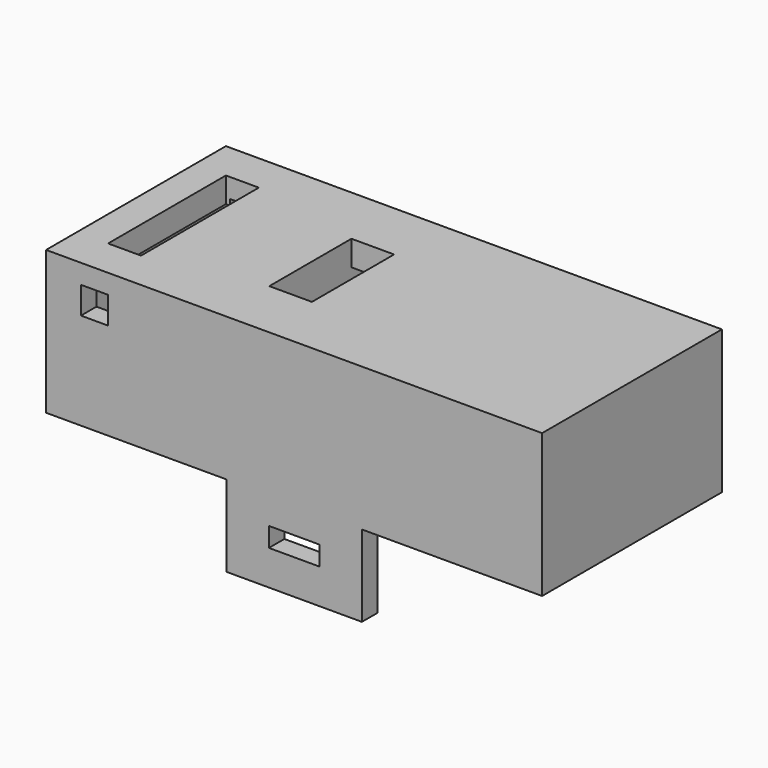
from build123d import *

# Parameters (mm, degrees)
SKETCH028_W     = 1.3
SKETCH028_H     = 0.5
PAD004_DEPTH    = 2.9
SKETCH035_W     = 11.8
SKETCH035_H     = 4.8
POCKET013_DEPTH = 5.15
SKETCH036_W     = 1.1
SKETCH036_H     = 2.65
POCKET014_DEPTH = 0.65
SKETCH037_W     = 0.7
SKETCH037_H     = 4.8
PAD028_DEPTH    = 0.8
SKETCH038_W     = 0.85
SKETCH038_H     = 3.8
POCKET015_DEPTH = 0.65
SKETCH039_W     = 0.7
SKETCH039_H     = 0.7
POCKET016_DEPTH = 5.801


with BuildPart() as part:
    # Sketch028 → Pad004 (new body, symmetric)
    with BuildSketch(Plane.XZ):
        Polygon((6.4, 1.35), (6.4, 5.05), (-6.4, 5.05), (-6.4, 1.35), (-1.75, 1.35), (-1.75, -0.75), (1.75, -0.75), (1.75, 1.35), align=None)
        with Locations((0, 0.4)):
            Rectangle(SKETCH028_W, SKETCH028_H, mode=Mode.SUBTRACT)
    extrude(amount=PAD004_DEPTH, both=True)

    # Sketch035 (on Face6 of Pad004) → Pocket013 (cut)
    with BuildSketch(Plane(origin=(0, 0, -0.75), x_dir=(1, 0, 0), z_dir=(0, 0, -1))):
        Rectangle(SKETCH035_W, SKETCH035_H)
    extrude(amount=-POCKET013_DEPTH, mode=Mode.SUBTRACT)

    # Sketch036 (on Face3 of Pocket013) → Pocket014 (cut)
    with BuildSketch(Plane(origin=(0, 0, 5.05), x_dir=(-1, 0, 0), z_dir=(0, 0, 1))):
        with Locations((1.35, 0)):
            Rectangle(SKETCH036_W, SKETCH036_H)
    extrude(amount=-POCKET014_DEPTH, mode=Mode.SUBTRACT)

    # Sketch037 (on Face30 of Pocket014) → Pad028 (join)
    with BuildSketch(Plane(origin=(0, 0, 4.4), x_dir=(1, 0, 0), z_dir=(0, 0, -1))):
        with Locations((-2.25, 0)):
            Rectangle(SKETCH037_W, SKETCH037_H)
        with Locations((-0.45, 0)):
            Rectangle(SKETCH037_W, SKETCH037_H)
    extrude(amount=PAD028_DEPTH)

    # Sketch038 (on Face3 of Pad028) → Pocket015 (cut)
    with BuildSketch(Plane(origin=(0, 0, 5.05), x_dir=(-1, 0, 0), z_dir=(0, 0, 1))):
        with Locations((5.175, 0)):
            Rectangle(SKETCH038_W, SKETCH038_H)
    extrude(amount=-POCKET015_DEPTH, mode=Mode.SUBTRACT)

    # Sketch039 (on Face5 of Pocket015) → Pocket016 (cut, through all)
    with BuildSketch(Plane.XZ.offset(2.9)):
        with Locations((-5.15, 4.2)):
            Rectangle(SKETCH039_W, SKETCH039_H)
    extrude(amount=-POCKET016_DEPTH, mode=Mode.SUBTRACT)


solid = part.part
